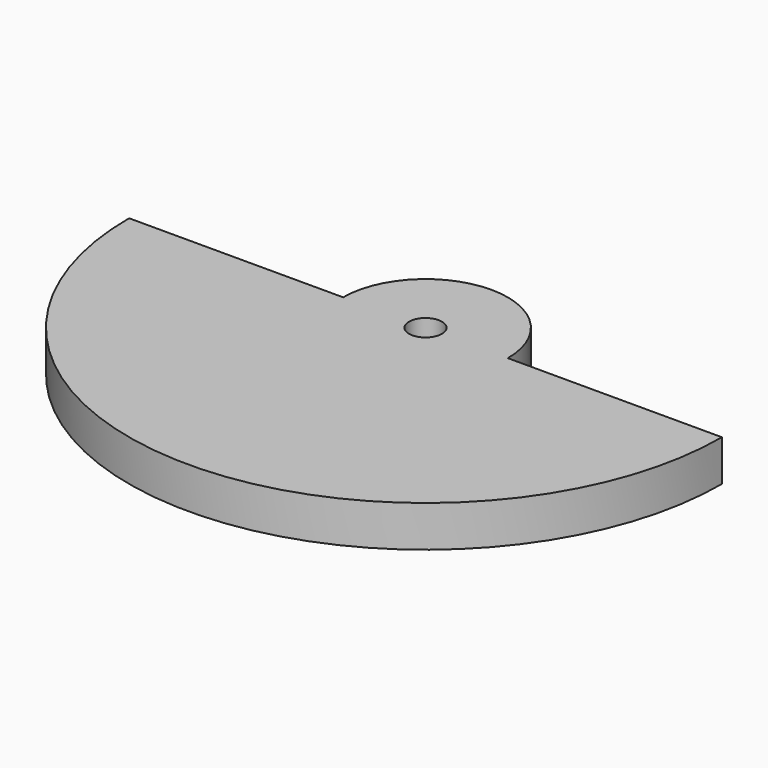
from build123d import *

# Parameters (mm, degrees)
F0_R     = 2
F1_DEPTH = 5


with BuildPart() as f1:
    # F0 (on Top) → F1 (new body)
    with BuildSketch(Plane.XY):
        with BuildLine():
            ThreePointArc((10, 0), (0, 10), (-10, 0))
            Line((-10, 0), (-36, 0))
            ThreePointArc((-36, 0), (0, -36), (36, 0))
            Line((36, 0), (10, 0))
        make_face()
        Circle(F0_R, mode=Mode.SUBTRACT)
    extrude(amount=F1_DEPTH)


solid = f1.part
